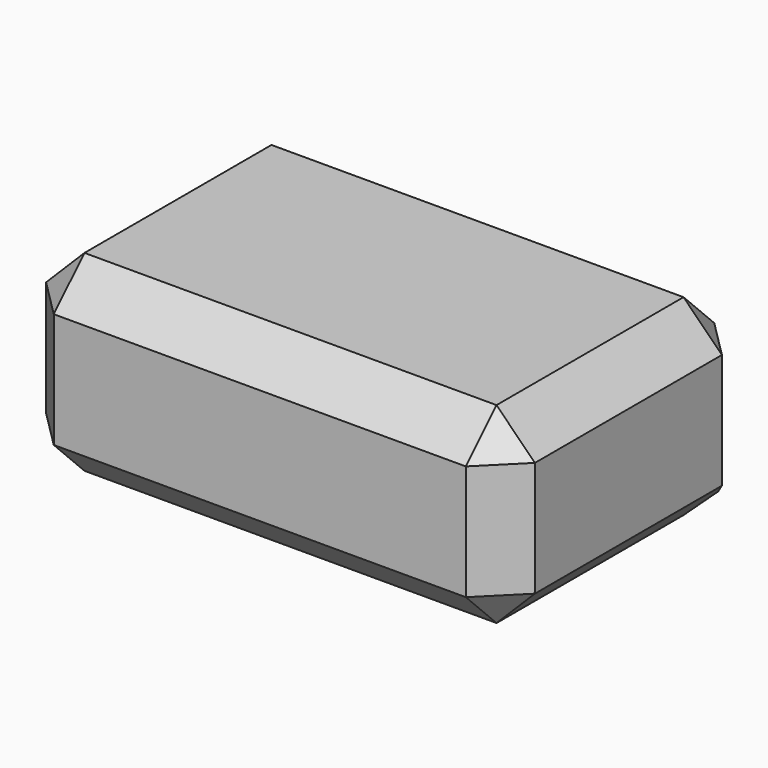
from build123d import *

# Parameters (mm, degrees)
F0_W     = 64.712018
F0_H     = 41.106358
F1_DEPTH = 25.4
F2_SIZE  = 5.08
F3_SIZE  = 5.08


with BuildPart() as f1:
    # F0 (on Top) → F1 (new body)
    with BuildSketch(Plane.XY):
        with Locations((5.08742, -7.732876)):
            Rectangle(F0_W, F0_H)
    extrude(amount=F1_DEPTH)

    # F2
    f2_edges = [f1.edges().sort_by_distance(p)[0] for p in [
        (5.08742, 12.820303, 25.4),
        (37.443429, -7.732876, 0),
        (37.443429, 12.820303, 12.7),
        (-27.268589, 12.820303, 12.7),
        (-27.268589, -7.732876, 25.4),
        (-27.268589, -7.732876, 0),
        (-27.268589, -28.286055, 12.7),
        (5.08742, -28.286055, 0),
        (5.08742, -28.286055, 25.4),
        (37.443429, -28.286055, 12.7),
        (37.443429, -7.732876, 25.4),
    ]]
    chamfer(f2_edges, length=F2_SIZE)

    # F3
    f3_edges = [f1.edges().sort_by_distance(p)[0] for p in [
        (5.08742, 12.820303, 0),
    ]]
    chamfer(f3_edges, length=F3_SIZE)


solid = f1.part
